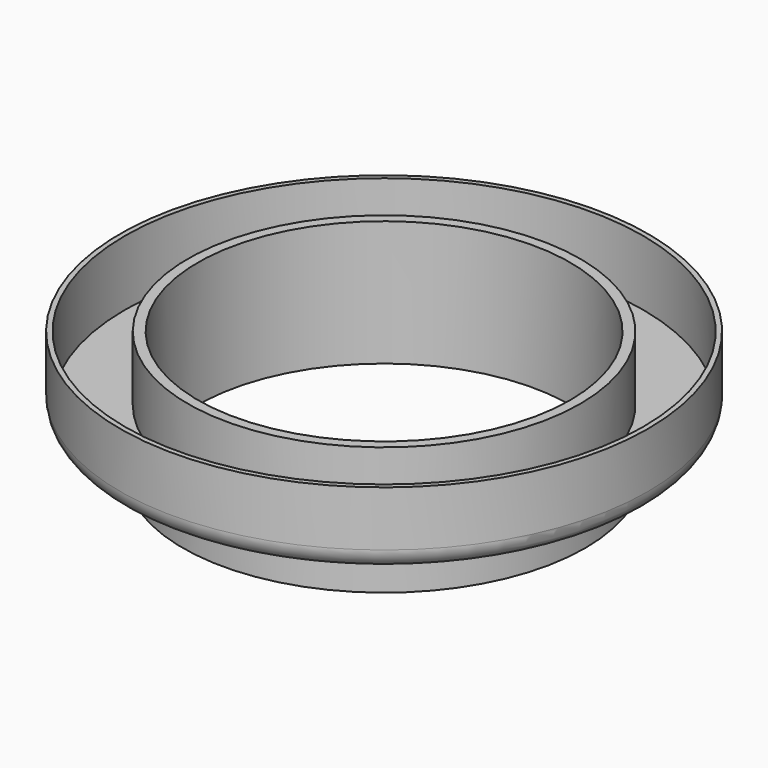
from build123d import *

# Parameters (mm, degrees)
SKETCH055_R        = 52.65
SKETCH055_R_2      = 37.15
PAD023_DEPTH       = 25
SKETCH056_R        = 52.65
SKETCH056_R_2      = 40.15
POCKET003021_DEPTH = 10
SKETCH057_R        = 51.65
SKETCH057_R_2      = 39.15
POCKET003022_DEPTH = 13
FILLET_R           = 4


with BuildPart() as part:
    # Sketch055 → Pad023 (new body)
    with BuildSketch(Plane.XY.offset(80)):
        Circle(SKETCH055_R)
        Circle(SKETCH055_R_2, mode=Mode.SUBTRACT)
    extrude(amount=PAD023_DEPTH)

    # Sketch056 → Pocket003021 (cut)
    with BuildSketch(Plane.XY.offset(80)):
        Circle(SKETCH056_R)
        Circle(SKETCH056_R_2, mode=Mode.SUBTRACT)
    extrude(amount=POCKET003021_DEPTH, mode=Mode.SUBTRACT)

    # Sketch057 → Pocket003022 (cut)
    with BuildSketch(Plane.XY.offset(105)):
        Circle(SKETCH057_R)
        Circle(SKETCH057_R_2, mode=Mode.SUBTRACT)
    extrude(amount=-POCKET003022_DEPTH, mode=Mode.SUBTRACT)

    # Fillet
    fillet_edges = [part.edges().sort_by_distance(p)[0] for p in [
        (-52.65, 0, 90),
    ]]
    fillet(fillet_edges, radius=FILLET_R)


with BuildPart() as part_1:
    # Body010 placement: moved
    add(part.part.moved(Location((0, 0, 14))))


solid = part_1.part
